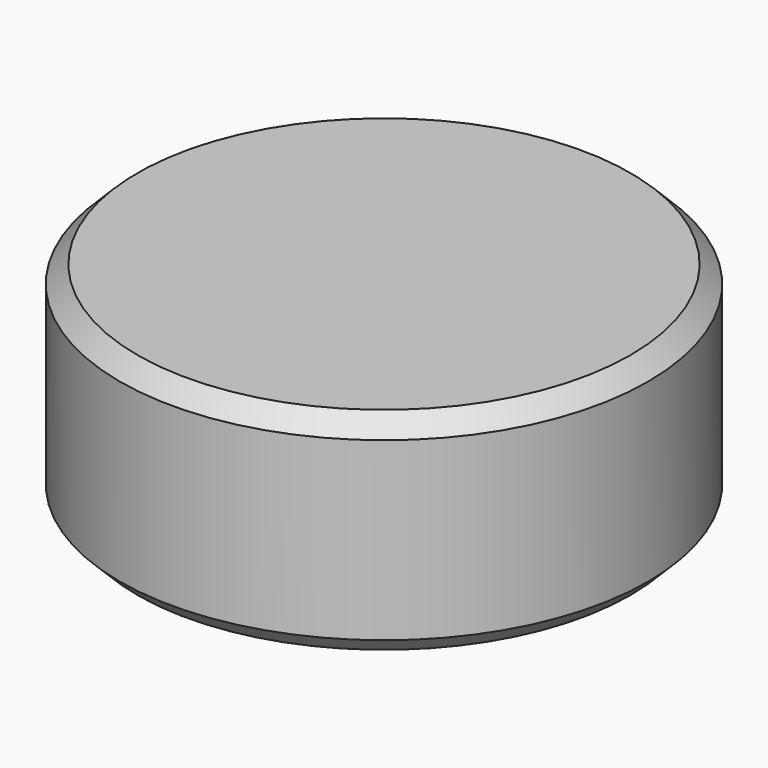
from build123d import *

# Parameters (mm, degrees)
SKETCH_R     = 15
PAD_DEPTH    = 12
CHAMFER_SIZE = 1


with BuildPart() as part:
    # Sketch → Pad (new body)
    with BuildSketch(Plane.XY):
        Circle(SKETCH_R)
    extrude(amount=PAD_DEPTH)

    # Chamfer
    chamfer_edges = [part.edges().sort_by_distance(p)[0] for p in [
        (-15, 0, 12),
        (-15, 0, 0),
    ]]
    chamfer(chamfer_edges, length=CHAMFER_SIZE)


solid = part.part
